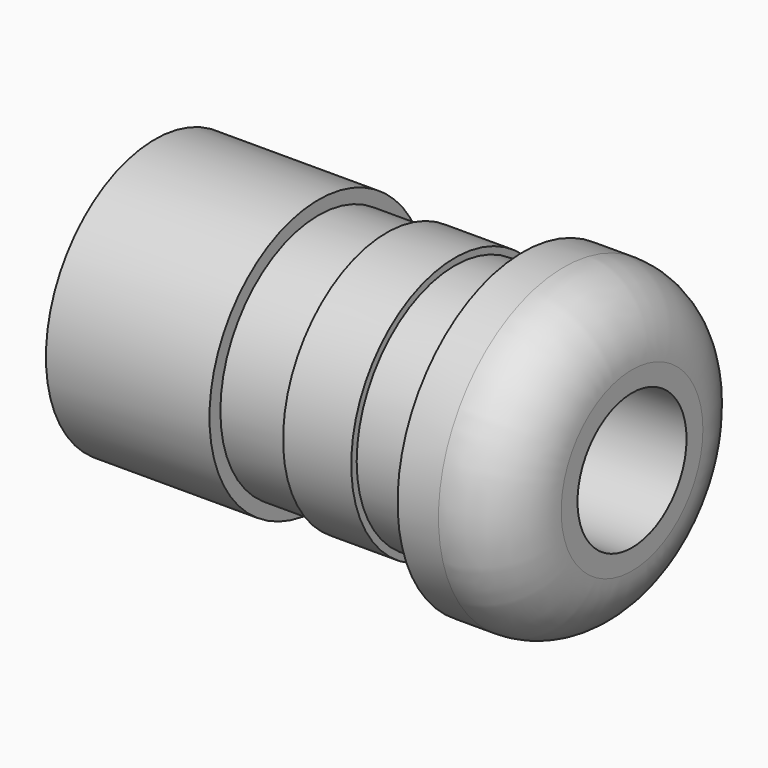
from build123d import *


with BuildPart() as f1:
    # F0 (on Top) → F1 (revolve)
    with BuildSketch(Plane.XY):
        with BuildLine():
            Line((-0.135119, 1), (-1.335119, 1))
            Line((-1.335119, 1), (-0.335119, 0.5))
            Line((-0.335119, 0.5), (2.164881, 0.5))
            Line((2.164881, 0.5), (2.164881, 0.65))
            ThreePointArc((2.164881, 0.65), (2.018435, 1.003553), (1.664881, 1.15))
            Line((1.664881, 1.15), (1.364881, 1.15))
            Line((1.364881, 1.15), (1.364881, 0.9))
            Line((1.364881, 0.9), (0.864881, 0.9))
            Line((0.864881, 0.9), (0.864881, 0.95))
            Line((0.864881, 0.95), (0.364881, 0.95))
            Line((0.364881, 0.95), (0.364881, 0.9))
            Line((0.364881, 0.9), (-0.135119, 0.9))
            Line((-0.135119, 0.9), (-0.135119, 1))
        make_face()
    revolve(axis=Axis((0.115357, 0, 0), (1, 0, 0)))


solid = f1.part
